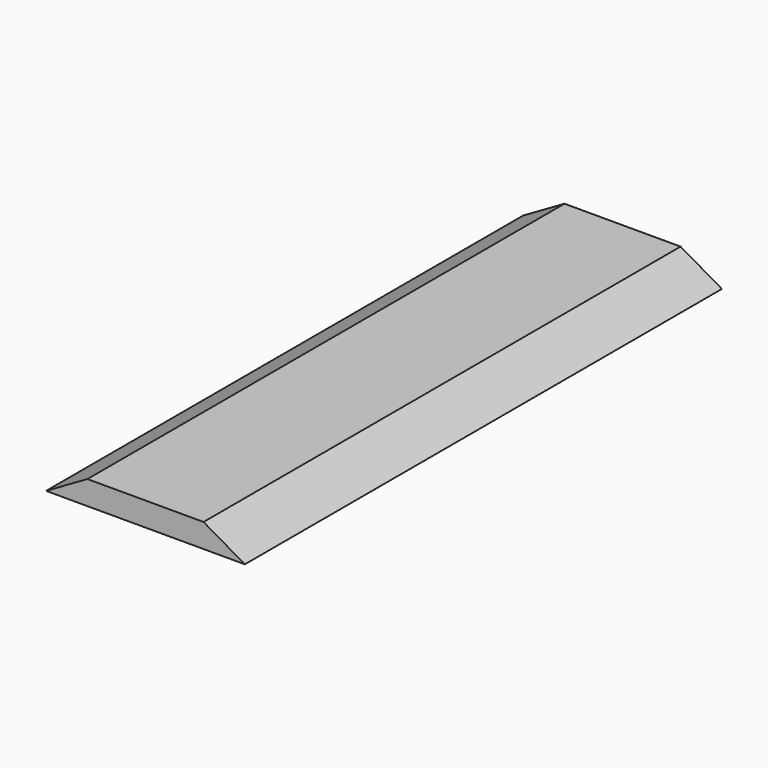
from build123d import *

# Parameters (mm, degrees)
F0_W     = 100
F0_H     = 300
F1_DEPTH = 12
F3_DEPTH = 300.001


with BuildPart() as f1:
    # F0 (on Top) → F1 (new body)
    with BuildSketch(Plane.XY):
        Rectangle(F0_W, F0_H)
    extrude(amount=F1_DEPTH)

    # F2 (on face) → F3 (cut, through all)
    with BuildSketch(Plane.XZ.offset(150)):
        Polygon((50, 0), (50, 12), (29.21539, 12), align=None)
        Polygon((-29.21539, 12), (-50, 12), (-50, 0), align=None)
    extrude(amount=-F3_DEPTH, mode=Mode.SUBTRACT)


solid = f1.part
